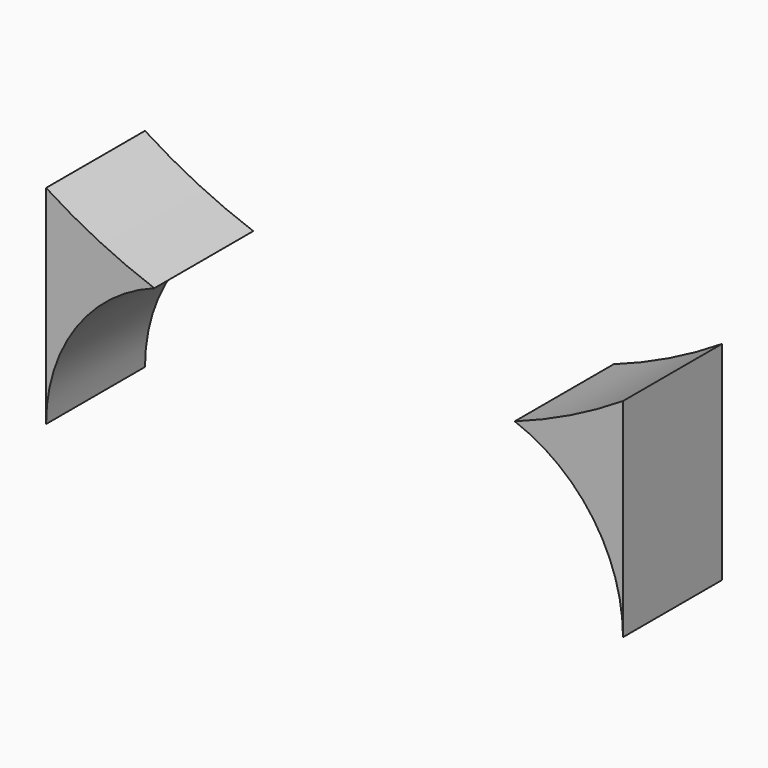
from build123d import *

# Parameters (mm, degrees)
CYLINDER2689_R     = 39
CYLINDER2689_DEPTH = 20
CYLINDER2688_R     = 12
CYLINDER2688_DEPTH = 14
CYLINDER2687_R     = 12
CYLINDER2687_DEPTH = 14
BOX920_W           = 12
BOX920_H           = 9
BOX920_DEPTH       = 16
BOX919_W           = 12
BOX919_H           = 9
BOX919_DEPTH       = 16


with BuildPart() as obj1:
    # Cylinder2689 → Cylinder2689 (new body)
    with BuildSketch(Plane(origin=(0, -54, 37), x_dir=(1, 0, 0), z_dir=(0, -1, 0))):
        Circle(CYLINDER2689_R)
    extrude(amount=CYLINDER2689_DEPTH)


with BuildPart() as obj2:
    # Cylinder2688 → Cylinder2688 (new body)
    with BuildSketch(Plane(origin=(-9, -60, -11), x_dir=(1, 0, 0), z_dir=(0, -1, 0))):
        Circle(CYLINDER2688_R)
    extrude(amount=CYLINDER2688_DEPTH)


with BuildPart() as compound1197:
    # Cylinder2687 → Cylinder2687 (new body)
    with BuildSketch(Plane(origin=(9, -60, -11), x_dir=(1, 0, 0), z_dir=(0, -1, 0))):
        Circle(CYLINDER2687_R)
    extrude(amount=CYLINDER2687_DEPTH)

    # Compound1197: union obj2
    add(obj2.part)


with BuildPart() as krychle919:
    # Box920 → Box920 (new body)
    with BuildSketch(Plane(origin=(-21, -74, -11), x_dir=(1, 0, 0), z_dir=(0, 0, 1))):
        with Locations((6, 4.5)):
            Rectangle(BOX920_W, BOX920_H)
    extrude(amount=BOX920_DEPTH)


with BuildPart() as cut1009:
    # Box919 → Box919 (new body)
    with BuildSketch(Plane(origin=(9, -74, -11), x_dir=(1, 0, 0), z_dir=(0, 0, 1))):
        with Locations((6, 4.5)):
            Rectangle(BOX919_W, BOX919_H)
    extrude(amount=BOX919_DEPTH)

    # Compound1196: union Krychle919
    add(krychle919.part)

    # Cut1008: cut Compound1197
    add(compound1197.part, mode=Mode.SUBTRACT)

    # Cut1009: cut obj1
    add(obj1.part, mode=Mode.SUBTRACT)


solid = cut1009.part
